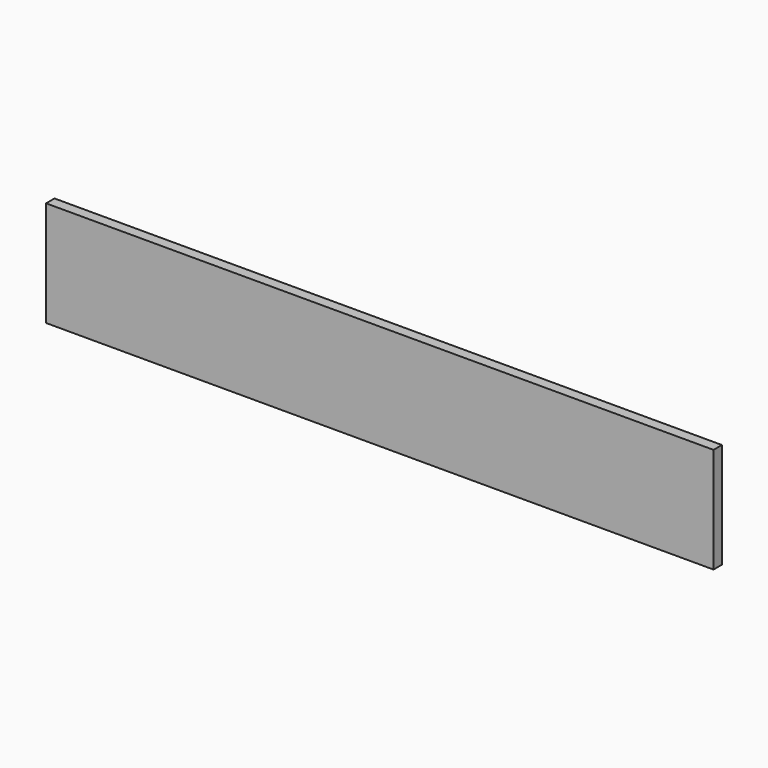
from build123d import *

# Parameters (mm, degrees)
F0_W     = 190
F0_H     = 13.25
F0_H_2   = 3.5
F1_DEPTH = 3


with BuildPart() as f1:
    # F0 (on Front) → F1 (new body)
    with BuildSketch(Plane.XZ):
        with Locations((0, 8.375)):
            Rectangle(F0_W, F0_H)
        Rectangle(F0_W, F0_H_2)
        with Locations((0, -8.375)):
            Rectangle(F0_W, F0_H)
    extrude(amount=F1_DEPTH)


solid = f1.part
